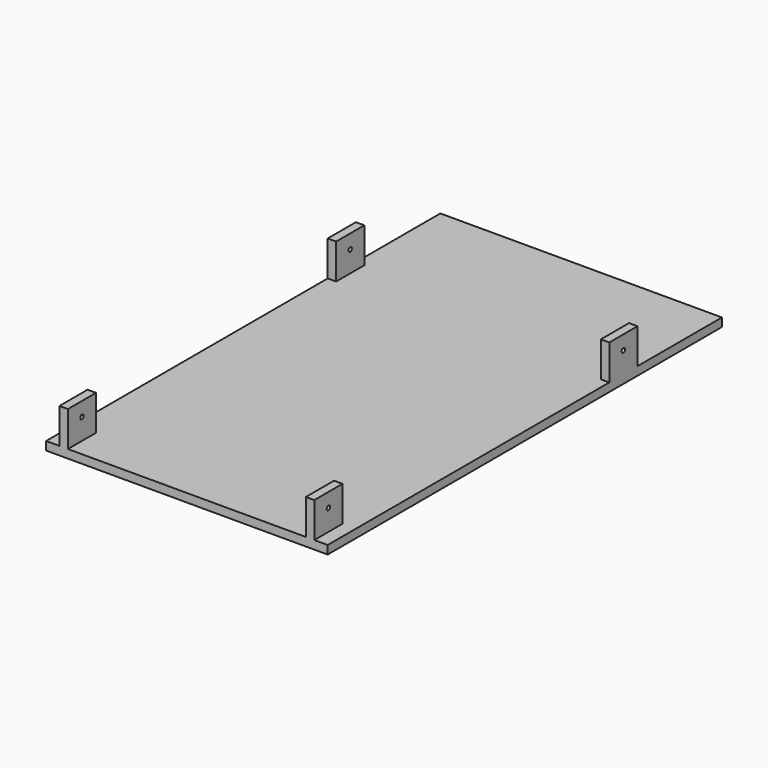
from build123d import *

# Parameters (mm, degrees)
F0_W          = 400
F0_H          = 12
F1_DEPTH      = 700
F2_W          = 12
F2_H          = 50
F3_DEPTH      = 50
F4_R          = 3
F5_DEPTH      = 381.001
F5_DEPTH_BACK = 19.001


with BuildPart() as f1:
    # F0 (on Front) → F1 (new body)
    with BuildSketch(Plane.XZ):
        with Locations((200, 6)):
            Rectangle(F0_W, F0_H)
    extrude(amount=-F1_DEPTH)

    # F2 (on face) → F3 (join)
    with BuildSketch(Plane.XY.offset(12)):
        with Locations((25, 25)):
            Rectangle(F2_W, F2_H)
        with Locations((375, 25)):
            Rectangle(F2_W, F2_H)
        with Locations((6, 525)):
            Rectangle(F2_W, F2_H)
        with Locations((394, 525)):
            Rectangle(F2_W, F2_H)
    extrude(amount=F3_DEPTH)

    # F4 (on face) → F5 (cut, two sides)
    with BuildSketch(Plane(origin=(19, 0, 0), x_dir=(0, -1, 0), z_dir=(-1, 0, 0))) as f5_sk:
        with Locations((-25, 42)):
            Circle(F4_R)
        with Locations((-525, 42)):
            Circle(F4_R)
    extrude(amount=-F5_DEPTH, mode=Mode.SUBTRACT)
    extrude(f5_sk.sketch, amount=F5_DEPTH_BACK, mode=Mode.SUBTRACT)


solid = f1.part
